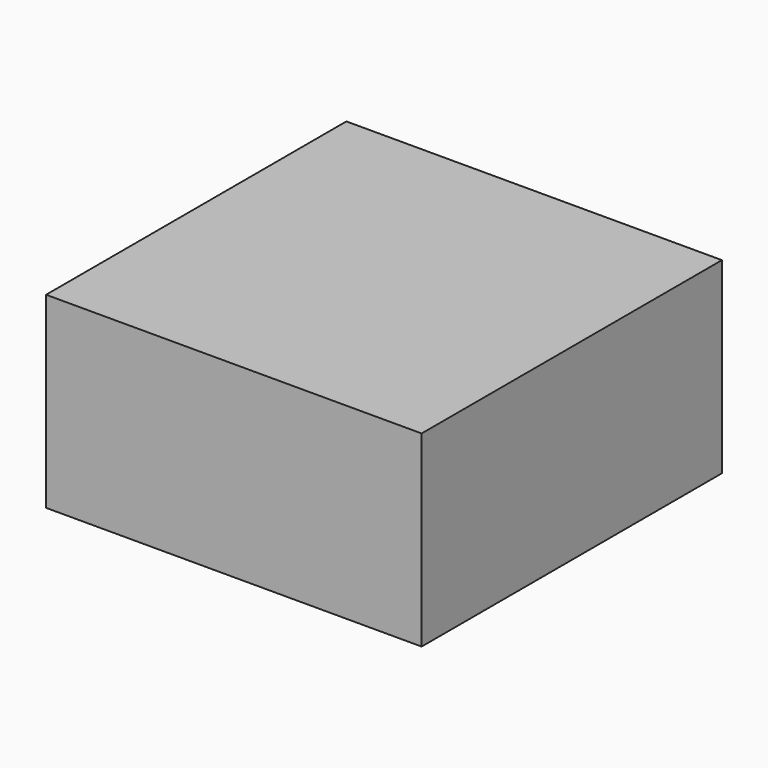
from build123d import *

# Parameters (mm, degrees)
SKETCH_W  = 17.012085
SKETCH_H  = 17.003323
PAD_DEPTH = 8.5


with BuildPart() as part:
    # Sketch → Pad (new body)
    with BuildSketch(Plane.XY):
        with Locations((8.506042, -8.501661)):
            Rectangle(SKETCH_W, SKETCH_H)
    extrude(amount=PAD_DEPTH)


solid = part.part
